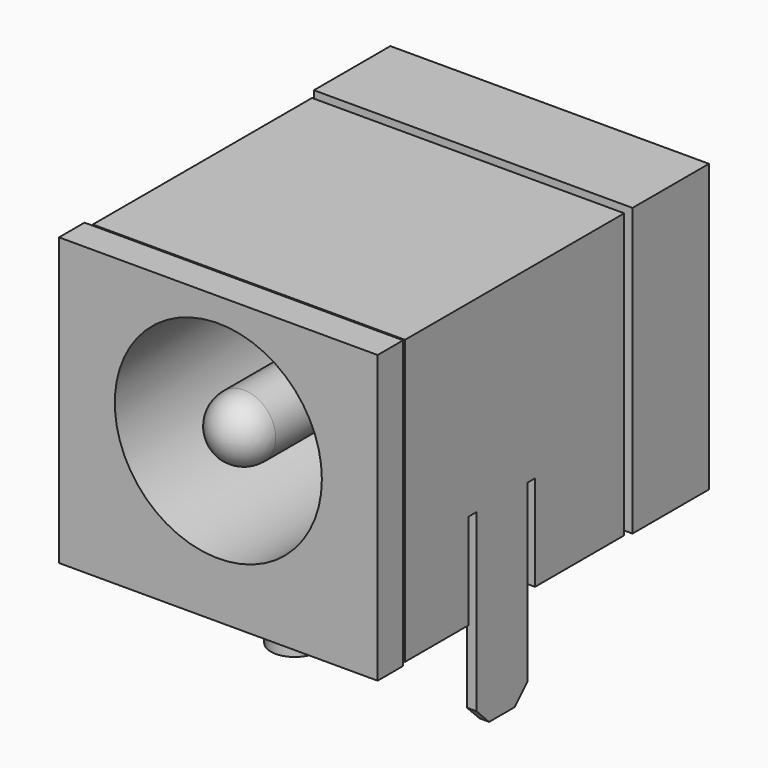
from build123d import *

# Parameters (mm, degrees)
SKETCH002_R     = 1
PAD001_DEPTH    = 8.85
FILLET_R        = 1
SKETCH003_W     = 2.5
SKETCH003_H     = 3
PAD002_DEPTH    = 0.3
CHAMFER_SIZE    = 0.7
CHAMFER001_SIZE = 0.7
SKETCH004_W     = 1.8
SKETCH004_H     = 3
PAD003_DEPTH    = 0.3
CHAMFER002_SIZE = 0.5
CHAMFER003_SIZE = 0.5
PAD004_DEPTH    = 0.3
CHAMFER004_SIZE = 0.5
CHAMFER005_SIZE = 0.5
SKETCH_W        = 10
SKETCH_H        = 13
PAD_DEPTH       = 9
SKETCH005_R     = 3.25
POCKET_DEPTH    = 8.85
SKETCH008_W     = 9
SKETCH008_H     = 9
POCKET001_DEPTH = 0.5
SKETCH009_W     = 9
SKETCH009_H     = 9
POCKET002_DEPTH = 0.5
SKETCH010_W     = 10
SKETCH010_H     = 9
POCKET003_DEPTH = 0.5
SKETCH011_W     = 9.8
SKETCH011_H     = 8.6
PAD006_DEPTH    = 0.3
SKETCH007_R     = 0.75
PAD005_DEPTH    = 1.8


with BuildPart() as centralpin:
    # Sketch002 → Pad001 (new body)
    with BuildSketch(Plane.XZ.offset(12)):
        with Locations((0, 5)):
            Circle(SKETCH002_R)
    extrude(amount=-PAD001_DEPTH)

    # Fillet
    fillet_edges = [centralpin.edges().sort_by_distance(p)[0] for p in [
        (-1, -12, 5),
    ]]
    fillet(fillet_edges, radius=FILLET_R)


with BuildPart() as pin1:
    # Sketch003 → Pad002 (new body)
    with BuildSketch(Plane.XZ.offset(0.15)):
        with Locations((0, -1.5)):
            Rectangle(SKETCH003_W, SKETCH003_H)
    extrude(amount=-PAD002_DEPTH)

    # Chamfer
    chamfer_edges = [pin1.edges().sort_by_distance(p)[0] for p in [
        (1.25, 0, -3),
    ]]
    chamfer(chamfer_edges, length=CHAMFER_SIZE)

    # Chamfer001
    chamfer001_edges = [pin1.edges().sort_by_distance(p)[0] for p in [
        (-1.25, 0, -3),
    ]]
    chamfer(chamfer001_edges, length=CHAMFER001_SIZE)


with BuildPart() as pin2:
    # Sketch004 → Pad003 (new body)
    with BuildSketch(Plane.XZ.offset(6.15)):
        with Locations((0, -1.5)):
            Rectangle(SKETCH004_W, SKETCH004_H)
    extrude(amount=-PAD003_DEPTH)

    # Chamfer002
    chamfer002_edges = [pin2.edges().sort_by_distance(p)[0] for p in [
        (0.9, -6, -3),
    ]]
    chamfer(chamfer002_edges, length=CHAMFER002_SIZE)

    # Chamfer003
    chamfer003_edges = [pin2.edges().sort_by_distance(p)[0] for p in [
        (-0.9, -6, -3),
    ]]
    chamfer(chamfer003_edges, length=CHAMFER003_SIZE)


with BuildPart() as pin3:
    # Sketch006 → Pad004 (new body)
    with BuildSketch(Plane.YZ.offset(4.9)):
        Polygon((-8, -3), (-6, -3), (-6, 0), (-6, 3), (-5.7, 3), (-5.7, 0), (-2.2, 0), (-2.2, 8.9), (-10.8, 8.9), (-10.8, 0), (-8.3, 0), (-8.3, 3), (-8, 3), (-8, 0), align=None)
    extrude(amount=-PAD004_DEPTH)

    # Chamfer004
    chamfer004_edges = [pin3.edges().sort_by_distance(p)[0] for p in [
        (4.75, -8, -3),
    ]]
    chamfer(chamfer004_edges, length=CHAMFER004_SIZE)

    # Chamfer005
    chamfer005_edges = [pin3.edges().sort_by_distance(p)[0] for p in [
        (4.75, -6, -3),
    ]]
    chamfer(chamfer005_edges, length=CHAMFER005_SIZE)


with BuildPart() as pins3:
    # Part__Mirroring: instance of Pin3
    add(pin3.part.mirror(Plane(origin=(0, -7, -1.5), x_dir=(0, -1, 0), z_dir=(1, 0, 0))))


with BuildPart() as body:
    # Sketch → Pad (new body)
    with BuildSketch(Plane.XY):
        with Locations((0, -5.5)):
            Rectangle(SKETCH_W, SKETCH_H)
    extrude(amount=PAD_DEPTH)

    # Sketch005 → Pocket (cut)
    with BuildSketch(Plane.XZ.offset(12)):
        with Locations((0, 5)):
            Circle(SKETCH005_R)
    extrude(amount=-POCKET_DEPTH, mode=Mode.SUBTRACT)

    # Sketch008 → Pocket001 (cut)
    with BuildSketch(Plane.YZ.offset(5)):
        with Locations((-6.5, 4.5)):
            Rectangle(SKETCH008_W, SKETCH008_H)
    extrude(amount=-POCKET001_DEPTH, mode=Mode.SUBTRACT)

    # Sketch009 → Pocket002 (cut)
    with BuildSketch(Plane(origin=(-5, 0, 0), x_dir=(0, -1, 0), z_dir=(-1, 0, 0))):
        with Locations((6.5, 4.5)):
            Rectangle(SKETCH009_W, SKETCH009_H)
    extrude(amount=-POCKET002_DEPTH, mode=Mode.SUBTRACT)

    # Sketch010 → Pocket003 (cut)
    with BuildSketch(Plane.XY.offset(9)):
        with Locations((0, -6.5)):
            Rectangle(SKETCH010_W, SKETCH010_H)
    extrude(amount=-POCKET003_DEPTH, mode=Mode.SUBTRACT)


with BuildPart() as shieldtop:
    # Sketch011 → Pad006 (new body)
    with BuildSketch(Plane.XY.offset(8.6)):
        with Locations((0, -6.5)):
            Rectangle(SKETCH011_W, SKETCH011_H)
    extrude(amount=PAD006_DEPTH)


with BuildPart() as obj1:
    # Sketch007 → Pad005 (new body)
    with BuildSketch(Plane.XY):
        with Locations((0, -9)):
            Circle(SKETCH007_R)
    extrude(amount=-PAD005_DEPTH)

    # Fusion: union CentralPin, Pin1, Pin2, Pins3, Pin3, Body, ShieldTop
    add(centralpin.part)
    add(pin1.part)
    add(pin2.part)
    add(pins3.part)
    add(pin3.part)
    add(body.part)
    add(shieldtop.part)


solid = obj1.part
